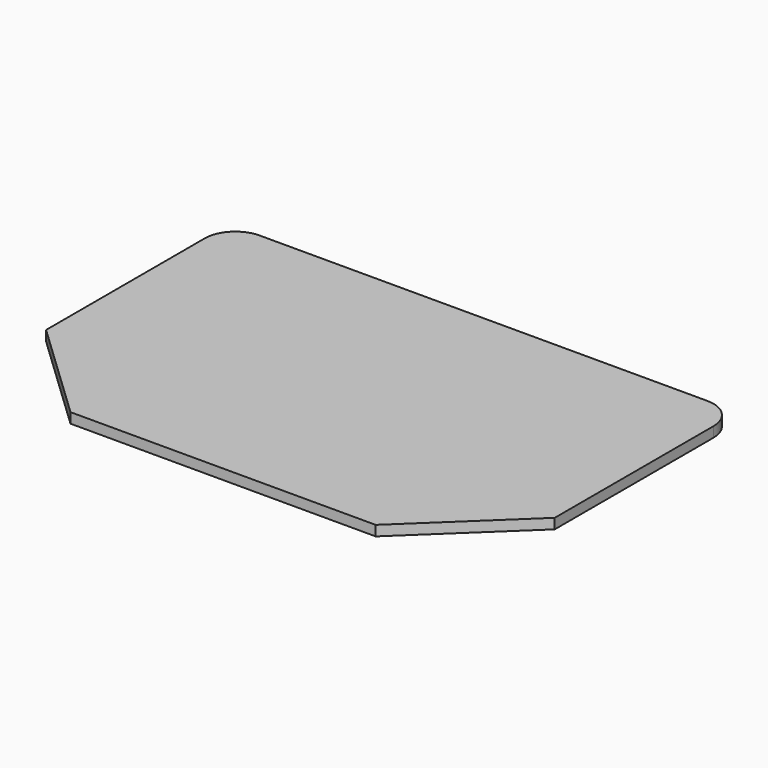
from build123d import *

# Parameters (mm, degrees)
F1_DEPTH = 5


with BuildPart() as f1:
    # F0 (on Top) → F1 (new body)
    with BuildSketch(Plane.XY):
        with BuildLine():
            Line((0, 45.902446), (50, -1.60018))
            Line((50, -1.60018), (200, -1.60018))
            Line((200, -1.60018), (250, 45.902446))
            Line((250, 45.902446), (250, 143.39982))
            ThreePointArc((250, 143.39982), (245.606602, 154.006421), (235, 158.39982))
            Line((235, 158.39982), (15, 158.39982))
            ThreePointArc((15, 158.39982), (4.393398, 154.006421), (0, 143.39982))
            Line((0, 143.39982), (0, 45.902446))
        make_face()
    extrude(amount=F1_DEPTH)


solid = f1.part
